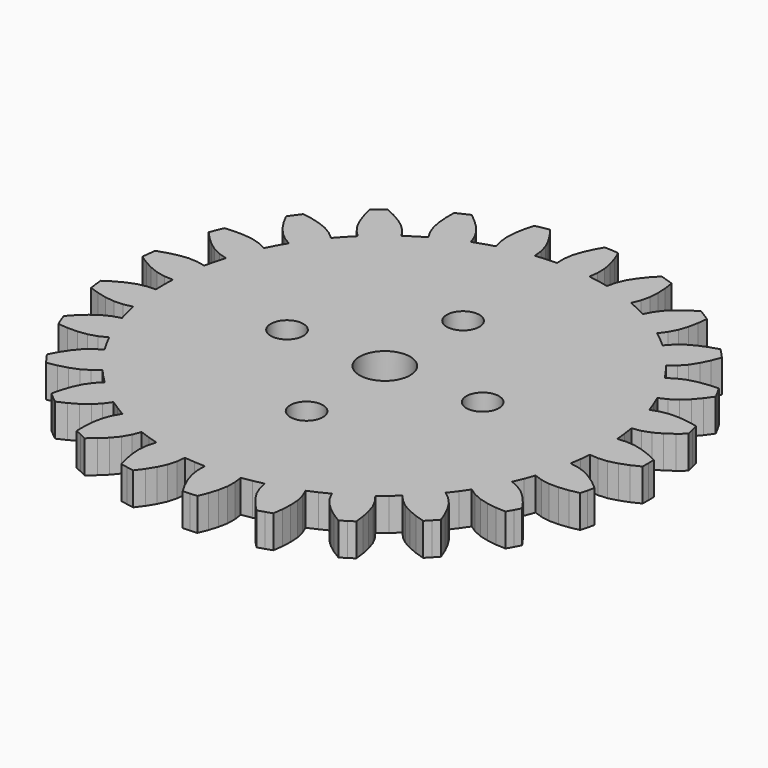
from build123d import *

# Parameters (mm, degrees)
F2_R     = 1
F2_R_2   = 1.55
F3_DEPTH = 2


with BuildPart() as f3:
    # F2 (on face) → F3 (new body)
    with BuildSketch(Plane.XY):
        Polygon((13.789326, -2.424998), (13.257441, -2.331729), (13.353883, -1.691999), (13.419566, -1.048383), (13.957935, -1.090318), (14.502752, -1.046189), (15.053277, -0.904158), (15.60484, -0.696463), (16.154578, -0.43184), (16.160335, 0), (16.154578, 0.43184), (15.60484, 0.696463), (15.053277, 0.904158), (14.502752, 1.046189), (13.957935, 1.090318), (13.419566, 1.048383), (13.353883, 1.691999), (13.257441, 2.331729), (13.789326, 2.424998), (14.306052, 2.603231), (14.80396, 2.877709), (15.286542, 3.216048), (15.753201, 3.609071), (15.651382, 4.028776), (15.538412, 4.445618), (14.940136, 4.565212), (14.354249, 4.629215), (13.785699, 4.629873), (13.247024, 4.537125), (12.735997, 4.36262), (12.512318, 4.969681), (12.259811, 5.565329), (12.75179, 5.787942), (13.207957, 6.089081), (13.621963, 6.47876), (14.005243, 6.926483), (14.359499, 7.423211), (14.156503, 7.80441), (13.943418, 8.180061), (13.334196, 8.147113), (12.750799, 8.0634), (12.199947, 7.922645), (11.701261, 7.698848), (11.249687, 7.402739), (10.882064, 7.935101), (10.489359, 8.449239), (10.91052, 8.787209), (11.277466, 9.192331), (11.581555, 9.672727), (11.84145, 10.201701), (12.061045, 10.770924), (11.769627, 11.089663), (11.469815, 11.40052), (10.887927, 11.2171), (10.343677, 10.990933), (9.845135, 10.717608), (9.417772, 10.376824), (9.054025, 9.977715), (8.565559, 10.401929), (8.05733, 10.802253), (8.38121, 11.234343), (8.635878, 11.717993), (8.810944, 12.25892), (8.931123, 12.835909), (9.002259, 13.44186), (8.640729, 13.678112), (8.273029, 13.904643), (7.755037, 13.582276), (7.284132, 13.227865), (6.869225, 12.839145), (6.540038, 12.402786), (6.286973, 11.925756), (5.708355, 12.215165), (5.116537, 12.476521), (5.322785, 12.975582), (5.449174, 13.50737), (5.484216, 14.07484), (5.457128, 14.66359), (5.375336, 15.268195), (4.96641, 15.407116), (4.553927, 15.535087), (4.132377, 15.094027), (3.764405, 14.633641), (3.459204, 14.15395), (3.248877, 13.649435), (3.122395, 13.124457), (2.489983, 13.260878), (1.851761, 13.366844), (1.927418, 13.901517), (1.917585, 14.44803), (1.810403, 15.006387), (1.63775, 15.569903), (1.408168, 16.135172), (0.977541, 16.168033), (0.546192, 16.189403), (0.247573, 15.657365), (0.005654, 15.119932), (-0.170663, 14.579411), (-0.248915, 14.038441), (-0.240867, 13.498501), (-0.887337, 13.473361), (-1.531861, 13.417278), (-1.591548, 13.953969), (-1.736984, 14.480867), (-1.979657, 14.995027), (-2.287026, 15.497902), (-2.649972, 15.988317), (-3.075242, 15.913053), (-3.498355, 15.82648), (-3.655279, 15.236894), (-3.755944, 14.656182), (-3.7923, 14.088795), (-3.733559, 13.545359), (-3.591486, 13.024384), (-4.211394, 12.839263), (-4.821722, 12.624656), (-5.013004, 13.129642), (-5.284905, 13.603818), (-5.64782, 14.041474), (-6.070593, 14.452111), (-6.544097, 14.836858), (-6.93729, 14.658198), (-7.325579, 14.469121), (-7.33095, 13.859032), (-7.284034, 13.27153), (-7.178145, 12.712927), (-6.986102, 12.201172), (-6.718932, 11.731897), (-7.273327, 11.398427), (-7.811109, 11.03878), (-8.121967, 11.480331), (-8.503248, 11.871991), (-8.963602, 12.205644), (-9.475214, 12.49824), (-10.029525, 12.753144), (-10.365934, 12.482315), (-10.695003, 12.202613), (-10.548482, 11.610356), (-10.356934, 11.052979), (-10.115453, 10.538259), (-9.802175, 10.090341), (-9.426694, 9.702251), (-9.880741, 9.241386), (-10.312188, 8.759297), (-10.723089, 9.109669), (-11.189793, 9.394203), (-11.718661, 9.602888), (-12.286965, 9.75906), (-12.887254, 9.868104), (-13.14574, 9.522121), (-13.394912, 9.169371), (-13.105706, 8.632159), (-12.781563, 8.139929), (-12.419662, 7.701434), (-12.004834, 7.345497), (-11.544635, 7.062978), (-11.869805, 6.503675), (-12.167806, 5.929435), (-12.652932, 6.166612), (-13.175735, 6.326142), (-13.739885, 6.396748), (-14.329173, 6.406681), (-14.93772, 6.363014), (-15.102044, 5.963618), (-15.255663, 5.559983), (-14.841943, 5.111572), (-14.40557, 4.715417), (-13.94599, 4.380699), (-13.455677, 4.139108), (-12.939677, 3.979912), (-13.115538, 3.357313), (-13.261369, 2.727005), (-13.790237, 2.836085), (-14.336288, 2.860587), (-14.900274, 2.788676), (-15.473519, 2.651747), (-16.052088, 2.458112), (-16.111923, 2.030398), (-16.160336, 1.601242), (-15.648098, 1.269805), (-15.126916, 0.994618), (-14.598533, 0.784709), (-14.063543, 0.672644), (-13.524163, 0.646773), (-13.539665, 0), (-13.524163, -0.646773), (-14.063543, -0.672644), (-14.598533, -0.784709), (-15.126916, -0.994618), (-15.648098, -1.269805), (-16.160336, -1.601242), (-16.111923, -2.030398), (-16.052088, -2.458112), (-15.473519, -2.651747), (-14.900274, -2.788676), (-14.336288, -2.860587), (-13.790237, -2.836085), (-13.261369, -2.727005), (-13.115538, -3.357313), (-12.939677, -3.979912), (-13.455677, -4.139108), (-13.94599, -4.380699), (-14.40557, -4.715417), (-14.841943, -5.111572), (-15.255663, -5.559983), (-15.102044, -5.963618), (-14.93772, -6.363014), (-14.329173, -6.406681), (-13.739885, -6.396748), (-13.175735, -6.326142), (-12.652932, -6.166612), (-12.167806, -5.929435), (-11.869805, -6.503675), (-11.544635, -7.062978), (-12.004834, -7.345497), (-12.419662, -7.701434), (-12.781563, -8.139929), (-13.105706, -8.632159), (-13.394912, -9.169371), (-13.14574, -9.522121), (-12.887254, -9.868104), (-12.286965, -9.75906), (-11.718661, -9.602888), (-11.189793, -9.394203), (-10.723089, -9.109669), (-10.312188, -8.759297), (-9.880741, -9.241386), (-9.426694, -9.702251), (-9.802175, -10.090341), (-10.115453, -10.538259), (-10.356934, -11.052979), (-10.548482, -11.610356), (-10.695003, -12.202613), (-10.365934, -12.482315), (-10.029525, -12.753144), (-9.475214, -12.49824), (-8.963602, -12.205644), (-8.503248, -11.871991), (-8.121967, -11.480331), (-7.811109, -11.03878), (-7.273327, -11.398427), (-6.718932, -11.731897), (-6.986102, -12.201172), (-7.178145, -12.712927), (-7.284034, -13.27153), (-7.33095, -13.859032), (-7.325579, -14.469121), (-6.93729, -14.658198), (-6.544097, -14.836858), (-6.070593, -14.452111), (-5.64782, -14.041474), (-5.284905, -13.603818), (-5.013004, -13.129642), (-4.821722, -12.624656), (-4.211394, -12.839263), (-3.591486, -13.024384), (-3.733559, -13.545359), (-3.7923, -14.088795), (-3.755944, -14.656182), (-3.655279, -15.236894), (-3.498355, -15.82648), (-3.075242, -15.913053), (-2.649972, -15.988317), (-2.287026, -15.497902), (-1.979657, -14.995027), (-1.736984, -14.480867), (-1.591548, -13.953969), (-1.531861, -13.417278), (-0.887337, -13.473361), (-0.240867, -13.498501), (-0.248915, -14.038441), (-0.170663, -14.579411), (0.005654, -15.119932), (0.247573, -15.657365), (0.546192, -16.189403), (0.977541, -16.168033), (1.408168, -16.135172), (1.63775, -15.569903), (1.810403, -15.006387), (1.917585, -14.44803), (1.927418, -13.901517), (1.851761, -13.366844), (2.489983, -13.260878), (3.122395, -13.124457), (3.248877, -13.649435), (3.459204, -14.15395), (3.764405, -14.633641), (4.132377, -15.094027), (4.553927, -15.535087), (4.96641, -15.407116), (5.375336, -15.268195), (5.457128, -14.66359), (5.484216, -14.07484), (5.449174, -13.50737), (5.322785, -12.975582), (5.116537, -12.476521), (5.708355, -12.215165), (6.286973, -11.925756), (6.540038, -12.402786), (6.869225, -12.839145), (7.284132, -13.227865), (7.755037, -13.582276), (8.273029, -13.904643), (8.640729, -13.678112), (9.002259, -13.44186), (8.931123, -12.835909), (8.810944, -12.25892), (8.635878, -11.717993), (8.38121, -11.234343), (8.05733, -10.802253), (8.565559, -10.401929), (9.054025, -9.977715), (9.417772, -10.376824), (9.845135, -10.717608), (10.343677, -10.990933), (10.887927, -11.2171), (11.469815, -11.40052), (11.769627, -11.089663), (12.061045, -10.770924), (11.84145, -10.201701), (11.581555, -9.672727), (11.277466, -9.192331), (10.91052, -8.787209), (10.489359, -8.449239), (10.882064, -7.935101), (11.249687, -7.402739), (11.701261, -7.698848), (12.199947, -7.922645), (12.750799, -8.0634), (13.334196, -8.147113), (13.943418, -8.180061), (14.156503, -7.80441), (14.359499, -7.423211), (14.005243, -6.926483), (13.621963, -6.47876), (13.207957, -6.089081), (12.75179, -5.787942), (12.259811, -5.565329), (12.512318, -4.969681), (12.735997, -4.36262), (13.247024, -4.537125), (13.785699, -4.629873), (14.354249, -4.629215), (14.940136, -4.565212), (15.538412, -4.445618), (15.651382, -4.028776), (15.753201, -3.609071), (15.286542, -3.216048), (14.80396, -2.877709), (14.306052, -2.603231), align=None)
        with Locations((0, -6)):
            Circle(F2_R, mode=Mode.SUBTRACT)
        with Locations((-6, 0)):
            Circle(F2_R, mode=Mode.SUBTRACT)
        Circle(F2_R_2, mode=Mode.SUBTRACT)
        with Locations((6, 0)):
            Circle(F2_R, mode=Mode.SUBTRACT)
        with Locations((0, 6)):
            Circle(F2_R, mode=Mode.SUBTRACT)
    extrude(amount=F3_DEPTH)


solid = f3.part
